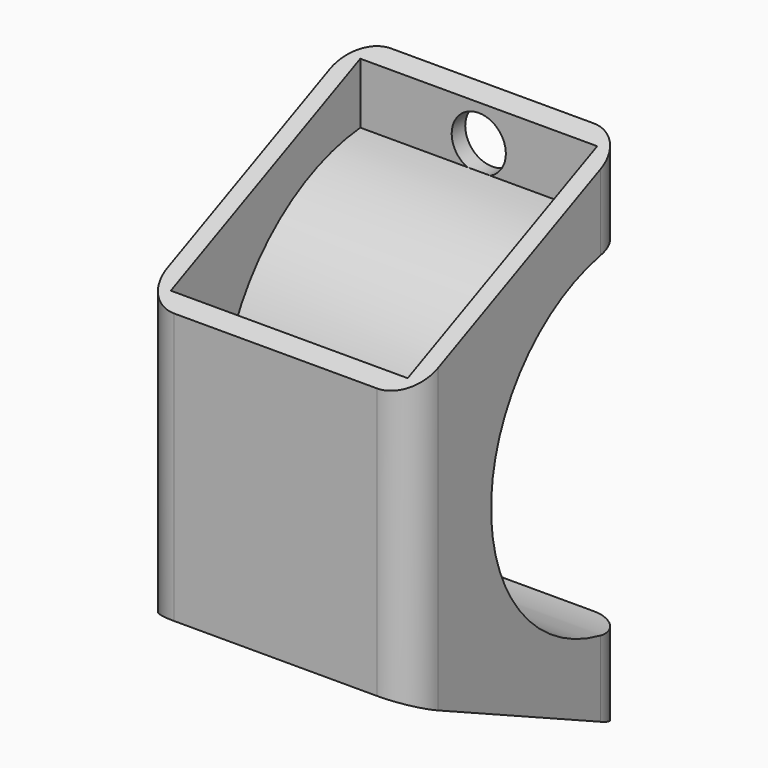
from build123d import *

# Parameters (mm, degrees)
F0_W     = 40
F0_H     = 40
F0_W_2   = 35
F0_H_2   = 35
F1_DEPTH = 100
F3_DEPTH = 40.001
F4_DEPTH = 40
F5_R     = 4
F6_DEPTH = 2.5
F8_DEPTH = 2.5
F9_R     = 5


with BuildPart() as f1:
    # F0 (on Top) → F1 (new body)
    with BuildSketch(Plane.XY):
        Rectangle(F0_W, F0_H)
        Rectangle(F0_W_2, F0_H_2, mode=Mode.SUBTRACT)
    extrude(amount=F1_DEPTH)

    # F2 (on face) → F3 (cut, through all)
    with BuildSketch(Plane.YZ.offset(20)):
        with BuildLine():
            Line((20, 25.3402171373), (20, 75.7902171373))
            ThreePointArc((20, 75.7902171373), (-5.225, 50.5652171373), (20, 25.3402171373))
        make_face()
        with BuildLine():
            ThreePointArc((20, 25.3402171373), (-5.225, 50.5652171373), (20, 75.7902171373))
            Line((20, 75.7902171373), (20, 78.7902171373))
            ThreePointArc((20, 78.7902171373), (-8.225, 50.5652171373), (20, 22.3402171373))
            Line((20, 22.3402171373), (20, 25.3402171373))
        make_face()
        Polygon((20, 0), (20, 12.3402171373), (-20, 30.5652171373), (-20, 0), align=None)
        Polygon((-20, 70.5652171373), (20, 88.7902171373), (20, 100), (-20, 100), align=None)
    extrude(amount=-F3_DEPTH, mode=Mode.SUBTRACT)

    # F2 (on face) → F4 (join)
    with BuildSketch(Plane.YZ.offset(20)):
        with BuildLine():
            ThreePointArc((20, 25.3402171373), (-5.225, 50.5652171373), (20, 75.7902171373))
            Line((20, 75.7902171373), (20, 78.7902171373))
            ThreePointArc((20, 78.7902171373), (-8.225, 50.5652171373), (20, 22.3402171373))
            Line((20, 22.3402171373), (20, 25.3402171373))
        make_face()
    extrude(amount=-F4_DEPTH)

    # F5 (on face) → F6 (cut)
    with BuildSketch(Plane(origin=(0, 20, 0), x_dir=(-1, 0, 0), z_dir=(0, 1, 0))):
        with Locations((0, 82.2902171373)):
            Circle(F5_R)
    extrude(amount=-F6_DEPTH, mode=Mode.SUBTRACT)

    # F7 (on face) → F8 (cut)
    with BuildSketch(Plane(origin=(0, 20, 0), x_dir=(-1, 0, 0), z_dir=(0, 1, 0))):
        with BuildLine():
            ThreePointArc((0, 22.8402171373), (-4, 18.8402171373), (0, 14.8402171373))
            Line((0, 14.8402171373), (0, 22.8402171373))
        make_face()
        with BuildLine():
            Line((0, 22.8402171373), (0, 14.8402171373))
            ThreePointArc((0, 14.8402171373), (2.8284271247, 16.0117900126), (4, 18.8402171373))
            ThreePointArc((4, 18.8402171373), (2.8284271247, 21.6686442621), (0, 22.8402171373))
        make_face()
    extrude(amount=-F8_DEPTH, mode=Mode.SUBTRACT)

    # F9
    f9_edges = [f1.edges().sort_by_distance(p)[0] for p in [
        (-20, 20, 82.290217),
        (-20, 20, 18.840217),
        (-20, -20, 50.565217),
        (20, -20, 50.565217),
        (20, 20, 18.840217),
        (20, 20, 82.290217),
    ]]
    fillet(f9_edges, radius=F9_R)


solid = f1.part
